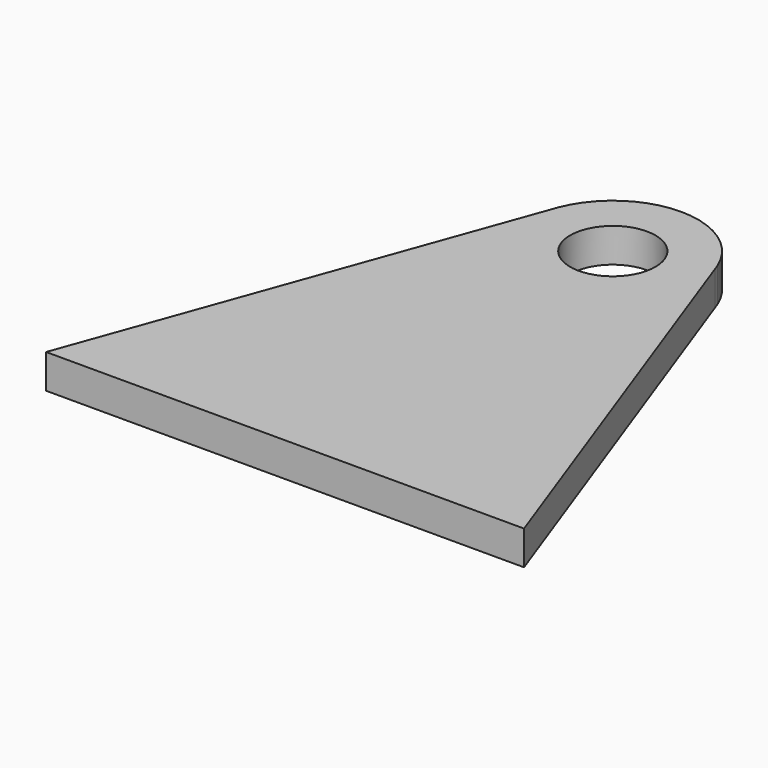
from build123d import *

# Parameters (mm, degrees)
F0_R     = 25
F1_DEPTH = 20


with BuildPart() as f1:
    # F0 (on Top) → F1 (new body)
    with BuildSketch(Plane.XY):
        with BuildLine():
            Line((-140, 0), (0, 0))
            Line((0, 0), (140, 0))
            Line((140, 0), (47.583011, 255.35764))
            ThreePointArc((47.583011, 255.35764), (49.392057, 247.773335), (50, 240))
            ThreePointArc((50, 240), (-7.773335, 190.607943), (-47.583011, 255.35764))
            Line((-47.583011, 255.35764), (-140, 0))
        make_face()
        with BuildLine():
            ThreePointArc((50, 240), (49.392057, 247.773335), (47.583011, 255.35764))
            Line((47.583011, 255.35764), (46.390554, 258.652519))
            ThreePointArc((46.390554, 258.652519), (0, 290), (-46.390554, 258.652519))
            Line((-46.390554, 258.652519), (-47.583011, 255.35764))
            ThreePointArc((-47.583011, 255.35764), (-7.773335, 190.607943), (50, 240))
        make_face()
        with Locations((0, 240)):
            Circle(F0_R, mode=Mode.SUBTRACT)
    extrude(amount=F1_DEPTH)


solid = f1.part
